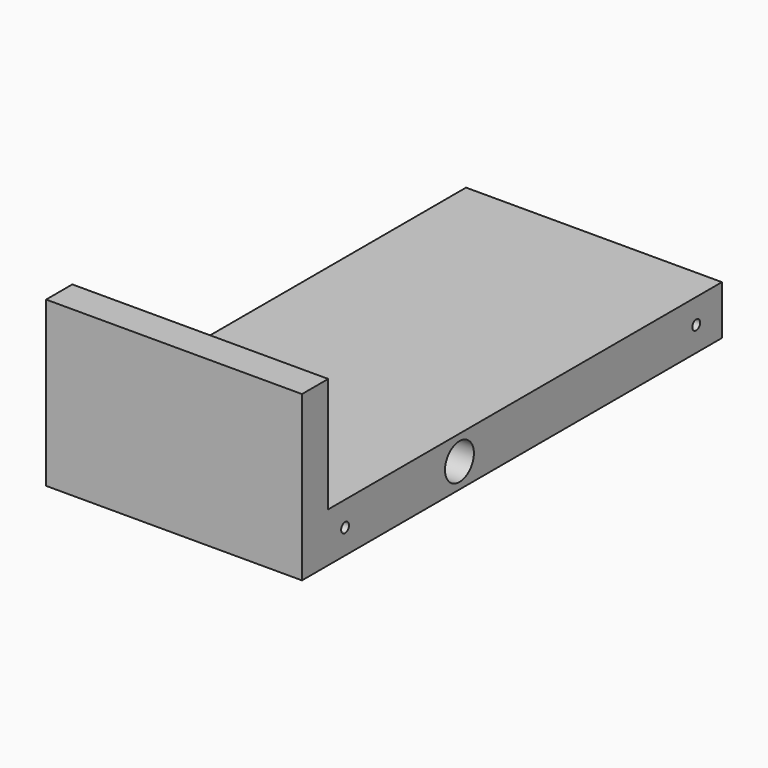
from build123d import *

# Parameters (mm, degrees)
F1_DEPTH = 39
F2_R     = 5.5
F3_DEPTH = 100
F4_R     = 1.5
F5_DEPTH = 25


with BuildPart() as f1:
    # F0 (on Right) → F1 (new body, symmetric)
    with BuildSketch(Plane.YZ):
        Polygon((0, 50), (0, 0), (160, 0), (160, 15), (10, 15), (10, 50), align=None)
    extrude(amount=F1_DEPTH, both=True)

    # F2 (on face) → F3 (cut)
    with BuildSketch(Plane.YZ.offset(39)):
        with Locations((60, 7.5)):
            Circle(F2_R)
    extrude(amount=-F3_DEPTH, mode=Mode.SUBTRACT)

    # F4 (on face) → F5 (cut)
    with BuildSketch(Plane.YZ.offset(39)):
        with Locations((150.202468, 7.5)):
            Circle(F4_R)
        with Locations((16.434773, 7.5)):
            Circle(F4_R)
    extrude(amount=-F5_DEPTH, mode=Mode.SUBTRACT)


solid = f1.part
